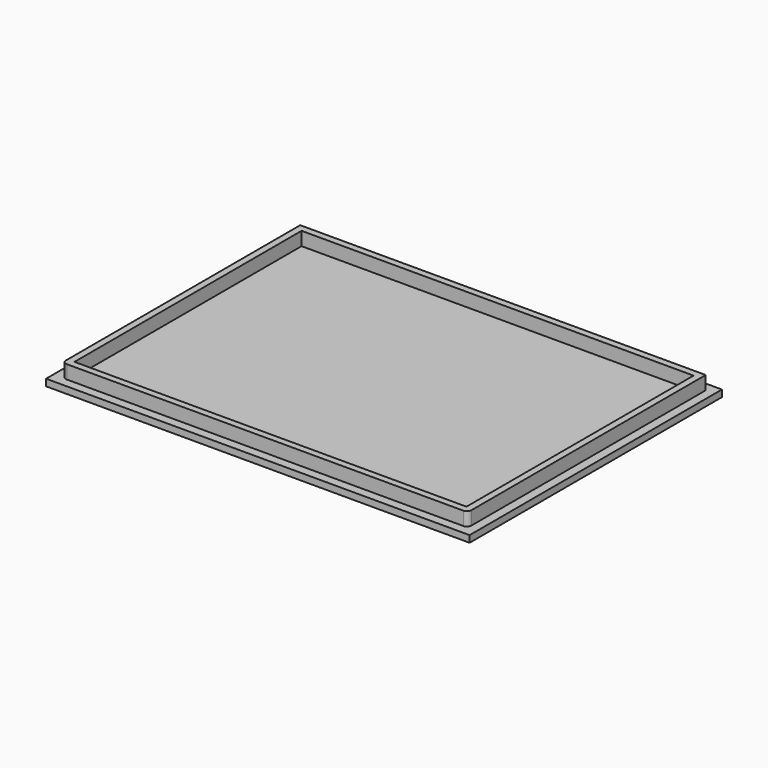
from build123d import *

# Parameters (mm, degrees)
BOX001_W     = 90
BOX001_H     = 66
BOX001_DEPTH = 4.5
THICKNESS_T  = -1.5
FILLET001_R  = 1.5
BOX_W        = 94
BOX_H        = 70
BOX_DEPTH    = 1.5
FILLET_R     = 1
FILLET002_R  = 1


with BuildPart() as thickness:
    # Box001 → Box001 (new body)
    with BuildSketch(Plane(origin=(2, 2, 0), x_dir=(1, 0, 0), z_dir=(0, 0, 1))):
        with Locations((45, 33)):
            Rectangle(BOX001_W, BOX001_H)
    extrude(amount=BOX001_DEPTH)

    # Thickness
    thickness_openings = [thickness.faces().sort_by_distance(p)[0] for p in [
        (47, 35, 4.5),
    ]]
    offset(amount=THICKNESS_T, openings=thickness_openings)


with BuildPart() as fillet001:
    # Fillet001 base: copy of Thickness
    add(thickness.part)

    # Fillet001
    fillet001_edges = [fillet001.edges().sort_by_distance(p)[0] for p in [
        (92, 2, 2.25),
        (2, 2, 2.25),
    ]]
    fillet(fillet001_edges, radius=FILLET001_R)


with BuildPart() as obj1:
    # Box → Box (new body)
    with BuildSketch(Plane.XY):
        with Locations((47, 35)):
            Rectangle(BOX_W, BOX_H)
    extrude(amount=BOX_DEPTH)


with BuildPart() as fusion001:
    # Fillet base: copy of Thickness
    add(thickness.part)

    # Fillet
    fillet_edges = [fusion001.edges().sort_by_distance(p)[0] for p in [
        (92, 2, 2.25),
        (2, 2, 2.25),
    ]]
    fillet(fillet_edges, radius=FILLET_R)

    # Fillet002
    fillet002_edges = [fusion001.edges().sort_by_distance(p)[0] for p in [
        (92, 68, 2.25),
        (2, 68, 2.25),
    ]]
    fillet(fillet002_edges, radius=FILLET002_R)

    # Fusion: union Fillet001, obj1
    add(fillet001.part)
    add(obj1.part)


solid = fusion001.part
